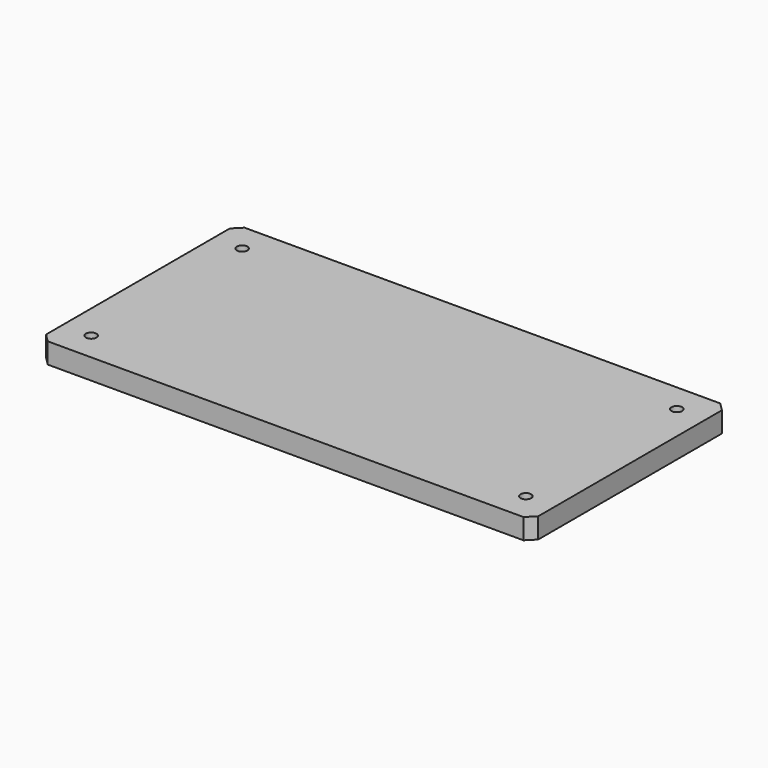
from build123d import *

# Parameters (mm, degrees)
F0_W     = 304.8
F0_H     = 152.4
F1_DEPTH = 12.7
F2_SIZE  = 5.08
F4_D     = 6.6


with BuildPart() as f1:
    # F0 (on Top) → F1 (new body)
    with BuildSketch(Plane.XY):
        with Locations((-4.3651189959, 1.439737156)):
            Rectangle(F0_W, F0_H)
    extrude(amount=F1_DEPTH)

    # F2
    f2_edges = [f1.edges().sort_by_distance(p)[0] for p in [
        (148.034881, -74.760263, 6.35),
        (148.034881, 77.639737, 6.35),
        (-156.765119, 77.639737, 6.35),
        (-156.765119, -74.760263, 6.35),
    ]]
    chamfer(f2_edges, length=F2_SIZE)

    # F4 (through all)
    with Locations(Plane(origin=(0, 0, 0), x_dir=(1, 0, 0), z_dir=(0, 0, -1))):
        with Locations((-138.9851189959, -59.859737156), (-138.9851189959, 56.980262844), (130.2548810041, 56.980262844), (130.2548810041, -59.859737156)):
            Hole(F4_D / 2)


solid = f1.part
